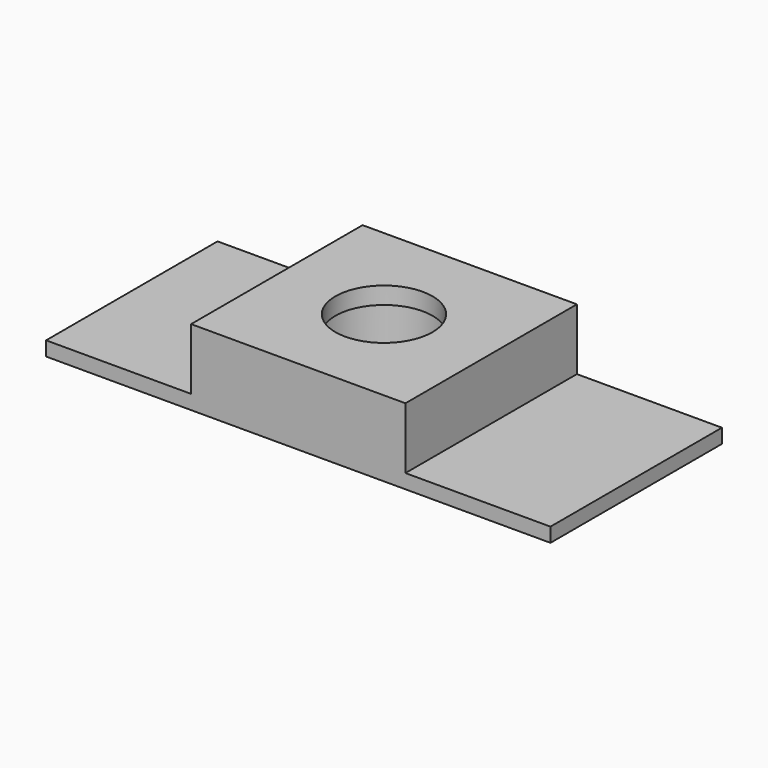
from build123d import *

# Parameters (mm, degrees)
CYLINDER_R        = 4
CYLINDER_DEPTH    = 4.1
CYLINDER001_R     = 3.4
CYLINDER001_DEPTH = 1.2
BOX001_W          = 35.3
BOX001_H          = 15
BOX001_DEPTH      = 1
BOX_W             = 15
BOX_H             = 15
BOX_DEPTH         = 5.3


with BuildPart() as obj1:
    # Cylinder → Cylinder (new body)
    with BuildSketch(Plane.XY):
        Circle(CYLINDER_R)
    extrude(amount=CYLINDER_DEPTH)


with BuildPart() as obj2:
    # Cylinder001 → Cylinder001 (new body)
    with BuildSketch(Plane.XY.offset(4.1)):
        Circle(CYLINDER001_R)
    extrude(amount=CYLINDER001_DEPTH)

    # Fusion: union obj1
    add(obj1.part)


with BuildPart() as correa:
    # Box001 → Box001 (new body)
    with BuildSketch(Plane(origin=(-17.65, -7.5, 0), x_dir=(1, 0, 0), z_dir=(0, 0, 1))):
        with Locations((17.65, 7.5)):
            Rectangle(BOX001_W, BOX001_H)
    extrude(amount=BOX001_DEPTH)


with BuildPart() as cut:
    # Box → Box (new body)
    with BuildSketch(Plane(origin=(-7.5, -7.5, 0), x_dir=(1, 0, 0), z_dir=(0, 0, 1))):
        with Locations((7.5, 7.5)):
            Rectangle(BOX_W, BOX_H)
    extrude(amount=BOX_DEPTH)

    # Fusion001: union correa
    add(correa.part)

    # Cut: cut obj2
    add(obj2.part, mode=Mode.SUBTRACT)


solid = cut.part
